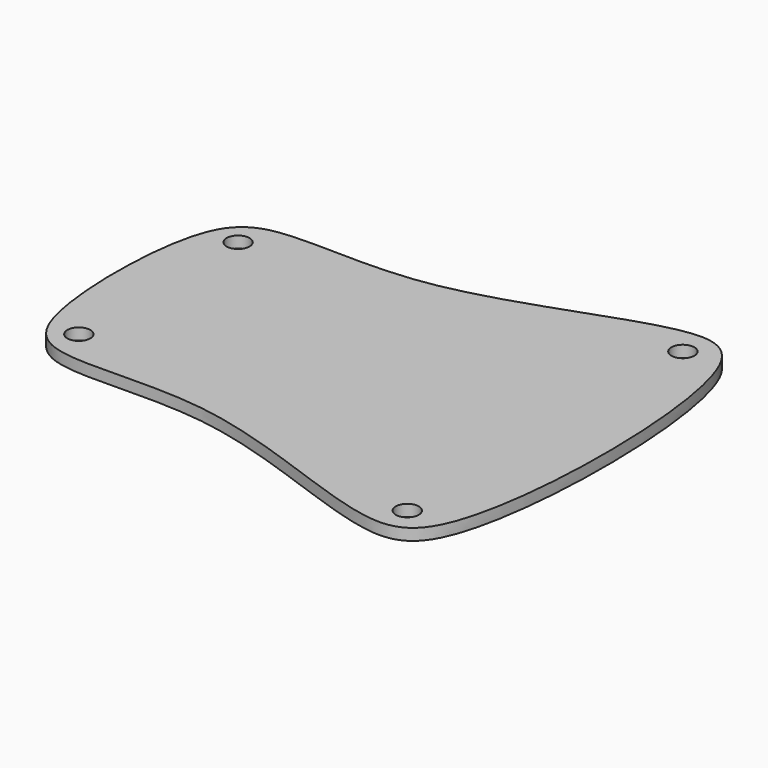
from build123d import *

# Parameters (mm, degrees)
F0_R     = 1.5
F1_DEPTH = 1.5


with BuildPart() as f1:
    # F0 (on Top) → F1 (new body)
    with BuildSketch(Plane.XY):
        with BuildLine():
            add(Edge.make_bspline(
                [(-30, 11), (-29.1074538581, 14.4468155541), (-25.4023913552, 19.1230370938), (-4.2581625809, 15.0130103439), (21.3112833708, 27.778490021), (33.8348841446, 24.6942246), (33.8348841446, -24.6942246), (21.3112833708, -27.778490021), (-4.2581625809, -15.0130103439), (-25.4023913552, -19.1230370938), (-31.4979922231, -11.4296769807), (-31.4979922231, 5.2150857506), (-30, 11)],
                knots=[0, 0, 0, 0, 0.0658230099, 0.1712207677, 0.2962074027, 0.3666471478, 0.5228797323, 0.5933194774, 0.7183061123, 0.8237038702, 0.8895268801, 1, 1, 1, 1], degree=3))
        make_face()
        with Locations((-25.5, -13)):
            Circle(F0_R, mode=Mode.SUBTRACT)
        with Locations((25, -22.5)):
            Circle(F0_R, mode=Mode.SUBTRACT)
        with Locations((-25.5, 13)):
            Circle(F0_R, mode=Mode.SUBTRACT)
        with Locations((25, 22.5)):
            Circle(F0_R, mode=Mode.SUBTRACT)
    extrude(amount=F1_DEPTH)


solid = f1.part
